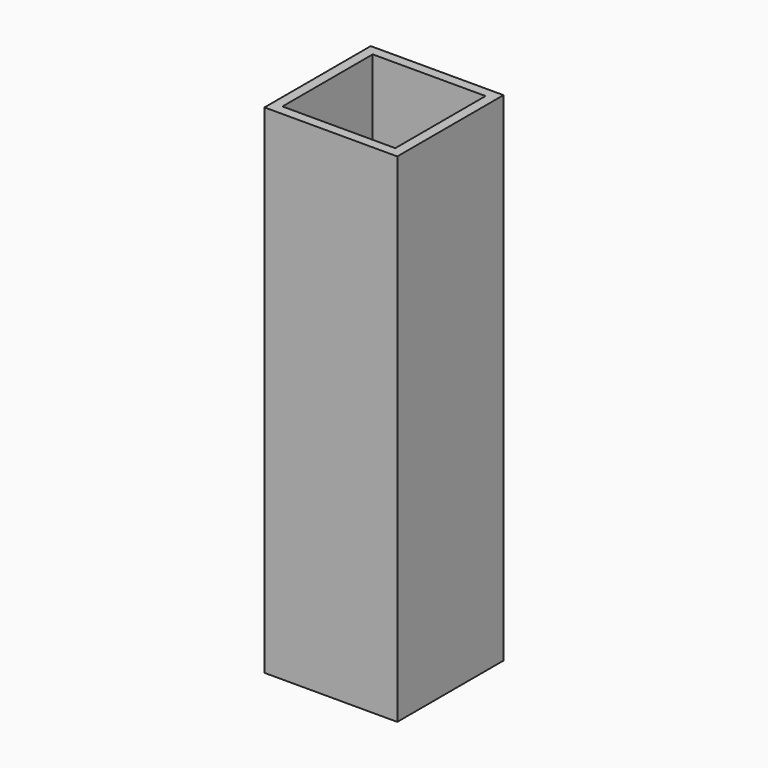
from build123d import *

# Parameters (mm, degrees)
SKETCH_W   = 40
SKETCH_H   = 40
SKETCH_W_2 = 34
SKETCH_H_2 = 34
PAD_DEPTH  = 150


with BuildPart() as part:
    # Sketch → Pad (new body)
    with BuildSketch(Plane.XY):
        with Locations((20, 20)):
            Rectangle(SKETCH_W, SKETCH_H)
        with Locations((20, 20)):
            Rectangle(SKETCH_W_2, SKETCH_H_2, mode=Mode.SUBTRACT)
    extrude(amount=PAD_DEPTH)


solid = part.part
